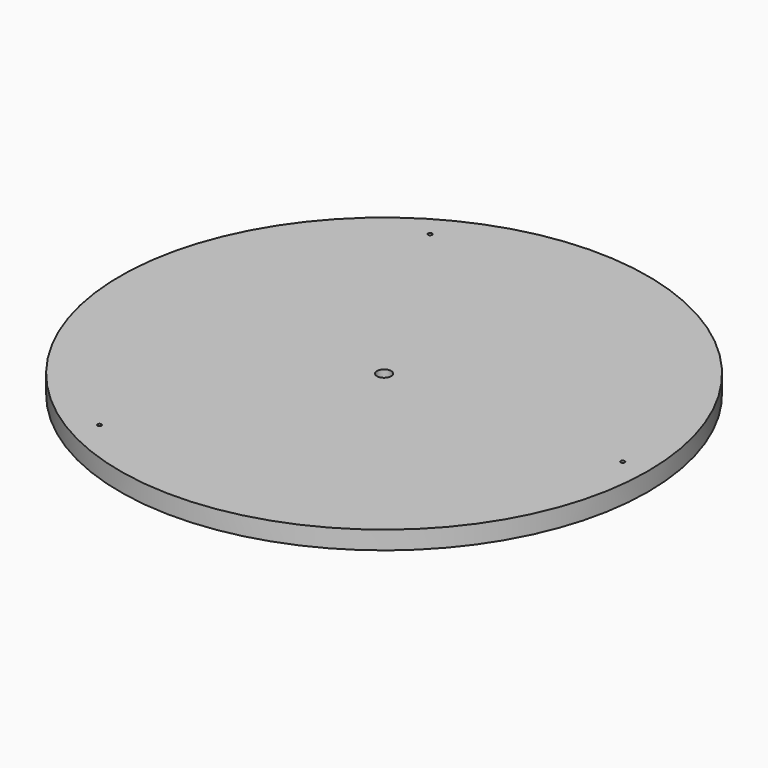
from build123d import *

# Parameters (mm, degrees)
SKETCH_R           = 260
PAD_DEPTH          = 18
SKETCH001_R        = 2
POCKET_DEPTH       = 1489.223621
POLARPATTERN_COUNT = 3
SKETCH002_R        = 7
POCKET001_DEPTH    = 18.001


with BuildPart() as part:
    # Sketch → Pad (new body)
    with BuildSketch(Plane.XY):
        Circle(SKETCH_R)
    extrude(amount=PAD_DEPTH)

    # Sketch001 (on Face3 of Pad) → Pocket (cut, through all)
    with BuildSketch(Plane.XY.offset(18)):
        with Locations((235, 0)):
            Circle(SKETCH001_R)
    pocket = extrude(amount=-POCKET_DEPTH, mode=Mode.SUBTRACT)

    # PolarPattern: Pocket ×3 about axis
    polarpattern_axis = Axis((0, 0, 18), (0, 0, 1))
    for i in range(1, POLARPATTERN_COUNT):
        add(pocket.rotate(polarpattern_axis, i * 360 / POLARPATTERN_COUNT), mode=Mode.SUBTRACT)

    # Sketch002 → Pocket001 (cut, through all)
    with BuildSketch(Plane.XY):
        Circle(SKETCH002_R)
    extrude(amount=POCKET001_DEPTH, mode=Mode.SUBTRACT)


solid = part.part
